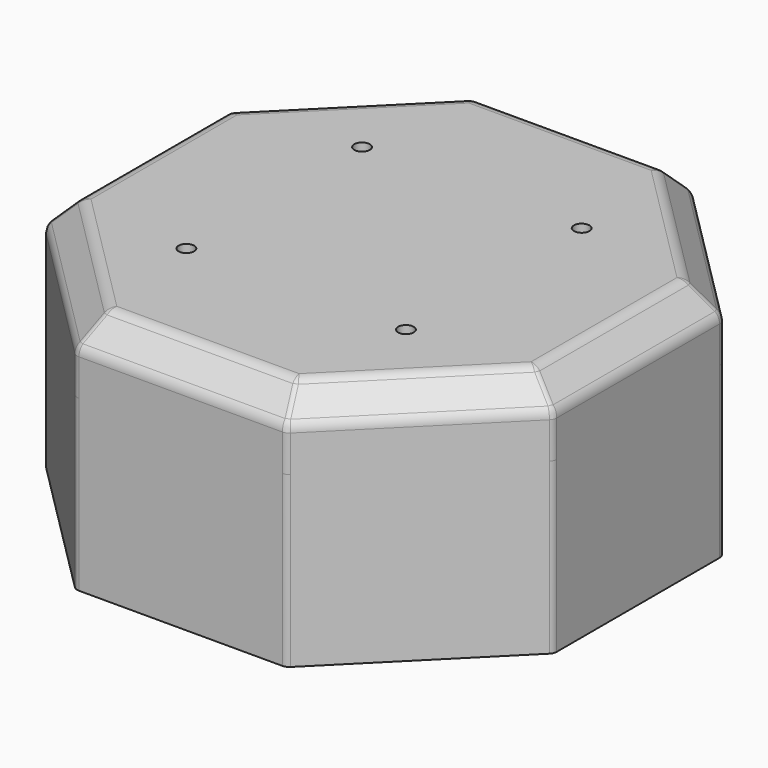
from build123d import *

# Parameters (mm, degrees)
F1_DEPTH = 25
F2_SIZE  = 10
F3_R     = 5
F4_T     = -3
F5_R     = 2.75
F6_DEPTH = 25
F7_R     = 3
F9_DEPTH = 60
F10_R    = 1


with BuildPart() as f1:
    # F0 (on Top) → F1 (new body)
    with BuildSketch(Plane.XY):
        Polygon((37.2792206136, 90), (-37.2792206136, 90), (-90, 37.2792206136), (-90, -37.2792206136), (-37.2792206136, -90), (37.2792206136, -90), (90, -37.2792206136), (90, 37.2792206136), align=None)
    extrude(amount=F1_DEPTH)

    # F2
    f2_edges = [f1.edges().sort_by_distance(p)[0] for p in [
        (-63.63961, -63.63961, 25),
        (0, -90, 25),
        (63.63961, -63.63961, 25),
        (90, 0, 25),
        (63.63961, 63.63961, 25),
        (0, 90, 25),
        (-63.63961, 63.63961, 25),
        (-90, 0, 25),
    ]]
    chamfer(f2_edges, length=F2_SIZE)

    # F3
    f3_edges = [f1.edges().sort_by_distance(p)[0] for p in [
        (0, -90, 15),
        (0, -80, 25),
        (56.568542, -56.568542, 25),
        (63.63961, -63.63961, 15),
        (80, 0, 25),
        (90, 0, 15),
        (56.568542, 56.568542, 25),
        (63.63961, 63.63961, 15),
        (0, 80, 25),
        (0, 90, 15),
        (-56.568542, 56.568542, 25),
        (-63.63961, 63.63961, 15),
        (-90, 0, 15),
        (-80, 0, 25),
        (-56.568542, -56.568542, 25),
        (-63.63961, -63.63961, 15),
    ]]
    fillet(f3_edges, radius=F3_R)

    # F4
    f4_openings = [f1.faces().sort_by_distance(p)[0] for p in [
        (0, 0, 0),
    ]]
    offset(amount=F4_T, openings=f4_openings)

    # F5 (on face) → F6 (cut)
    with BuildSketch(Plane.XY.offset(25)):
        with Locations((-38.8908729653, 38.8908729653)):
            Circle(F5_R)
        with Locations((-38.8908729653, -38.8908729653)):
            Circle(F5_R)
        with Locations((38.8908729653, -38.8908729653)):
            Circle(F5_R)
        with Locations((38.8908729653, 38.8908729653)):
            Circle(F5_R)
    extrude(amount=-F6_DEPTH, mode=Mode.SUBTRACT)

    # F7
    f7_edges = [f1.edges().sort_by_distance(p)[0] for p in [
        (-37.279221, -90, 6.464466),
        (37.279221, -90, 6.464466),
        (90, -37.279221, 6.464466),
        (90, 37.279221, 6.464466),
        (-90, -37.279221, 6.464466),
        (-90, 37.279221, 6.464466),
        (-35.208153, 85, 20),
        (35.208153, 85, 20),
    ]]
    fillet(f7_edges, radius=F7_R)

    # F8 (on face) → F9 (join)
    with BuildSketch(Plane(origin=(0, 0, 0), x_dir=(1, 0, 0), z_dir=(0, 0, -1))):
        with BuildLine():
            ThreePointArc((89.1213203436, -38.15790027), (89.7716385975, -37.1846302236), (90, -36.0365799265))
            Line((90, -36.0365799265), (90, 36.0365799265))
            ThreePointArc((90, 36.0365799265), (89.7716385975, 37.1846302236), (89.1213203436, 38.15790027))
            Line((89.1213203436, 38.15790027), (38.15790027, 89.1213203436))
            ThreePointArc((38.15790027, 89.1213203436), (37.1846302236, 89.7716385975), (36.0365799265, 90))
            Line((36.0365799265, 90), (-36.0365799265, 90))
            ThreePointArc((-36.0365799265, 90), (-37.1846302236, 89.7716385975), (-38.15790027, 89.1213203436))
            Line((-38.15790027, 89.1213203436), (-89.1213203436, 38.15790027))
            ThreePointArc((-89.1213203436, 38.15790027), (-89.7716385975, 37.1846302236), (-90, 36.0365799265))
            Line((-90, 36.0365799265), (-90, -36.0365799265))
            ThreePointArc((-90, -36.0365799265), (-89.7716385975, -37.1846302236), (-89.1213203436, -38.15790027))
            Line((-89.1213203436, -38.15790027), (-38.15790027, -89.1213203436))
            ThreePointArc((-38.15790027, -89.1213203436), (-37.1846302236, -89.7716385975), (-36.0365799265, -90))
            Line((-36.0365799265, -90), (36.0365799265, -90))
            ThreePointArc((36.0365799265, -90), (37.1846302236, -89.7716385975), (38.15790027, -89.1213203436))
            Line((38.15790027, -89.1213203436), (89.1213203436, -38.15790027))
        make_face()
        Polygon((-36.0365799265, 87), (36.0365799265, 87), (87, 36.0365799265), (87, -36.0365799265), (36.0365799265, -87), (-36.0365799265, -87), (-87, -36.0365799265), (-87, 36.0365799265), align=None, mode=Mode.SUBTRACT)
    extrude(amount=F9_DEPTH)

    # F10
    f10_edges = [f1.edges().sort_by_distance(p)[0] for p in [
        (-87, -36.03658, -23.535534),
        (-36.03658, -87, -23.535534),
        (36.03658, -87, -23.535534),
        (87, -36.03658, -23.535534),
        (87, 36.03658, -23.535534),
        (36.03658, 87, -23.535534),
        (-36.03658, 87, -23.535534),
        (-87, 36.03658, -23.535534),
    ]]
    fillet(f10_edges, radius=F10_R)


solid = f1.part
